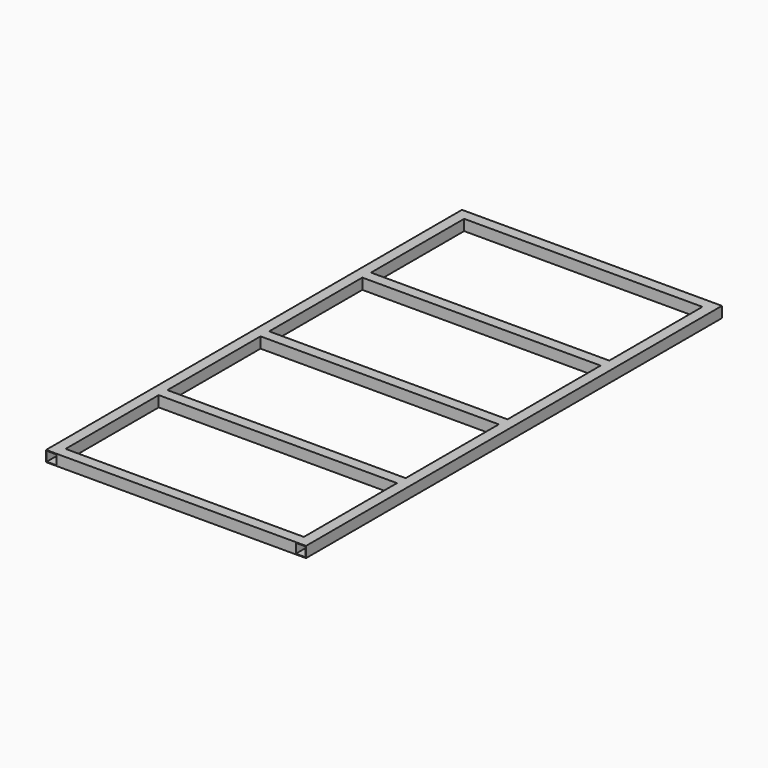
from build123d import *

# Parameters (mm, degrees)
F0_W     = 44.704
F0_H     = 44.704
F0_W_2   = 50.8
F0_H_2   = 50.8
F1_DEPTH = 2438.4
F2_DEPTH = 2438.4
F3_W     = 50.8
F3_H     = 50.8
F3_W_2   = 44.704
F3_H_2   = 44.704
F4_DEPTH = 1117.6


with BuildPart() as f1:
    # F0 (on Front) → F1 (new body)
    with BuildSketch(Plane.XZ):
        with Locations((-584.2, 25.4)):
            Rectangle(F0_W, F0_H)
        with Locations((-584.2, 25.4)):
            Rectangle(F0_W_2, F0_H_2)
        with Locations((-584.2, 25.4)):
            Rectangle(F0_W, F0_H, mode=Mode.SUBTRACT)
        with Locations((584.2, 25.4)):
            Rectangle(F0_W, F0_H)
        with Locations((584.2, 25.4)):
            Rectangle(F0_W_2, F0_H_2)
        with Locations((584.2, 25.4)):
            Rectangle(F0_W, F0_H, mode=Mode.SUBTRACT)
    extrude(amount=F1_DEPTH)

    # F0 (on Front) → F2 (cut)
    with BuildSketch(Plane.XZ):
        with Locations((-584.2, 25.4)):
            Rectangle(F0_W, F0_H)
        with Locations((584.2, 25.4)):
            Rectangle(F0_W, F0_H)
    extrude(amount=F2_DEPTH, mode=Mode.SUBTRACT)

    # F3 (on face) → F4 (join, through all)
    with BuildSketch(Plane.YZ.offset(-558.8)):
        with Locations((-2413, 25.4)):
            Rectangle(F3_W, F3_H)
        with Locations((-2413, 25.4)):
            Rectangle(F3_W_2, F3_H_2, mode=Mode.SUBTRACT)
        with Locations((-1816.1, 25.4)):
            Rectangle(F3_W, F3_H)
        with Locations((-1816.1, 25.4)):
            Rectangle(F3_W_2, F3_H_2, mode=Mode.SUBTRACT)
        with Locations((-1219.2, 25.4)):
            Rectangle(F3_W, F3_H)
        with Locations((-1219.2, 25.4)):
            Rectangle(F3_W_2, F3_H_2, mode=Mode.SUBTRACT)
        with Locations((-622.3, 25.4)):
            Rectangle(F3_W, F3_H)
        with Locations((-622.3, 25.4)):
            Rectangle(F3_W_2, F3_H_2, mode=Mode.SUBTRACT)
        with Locations((-25.4, 25.4)):
            Rectangle(F3_W, F3_H)
        with Locations((-25.4, 25.4)):
            Rectangle(F3_W_2, F3_H_2, mode=Mode.SUBTRACT)
    extrude(amount=F4_DEPTH)


solid = f1.part
